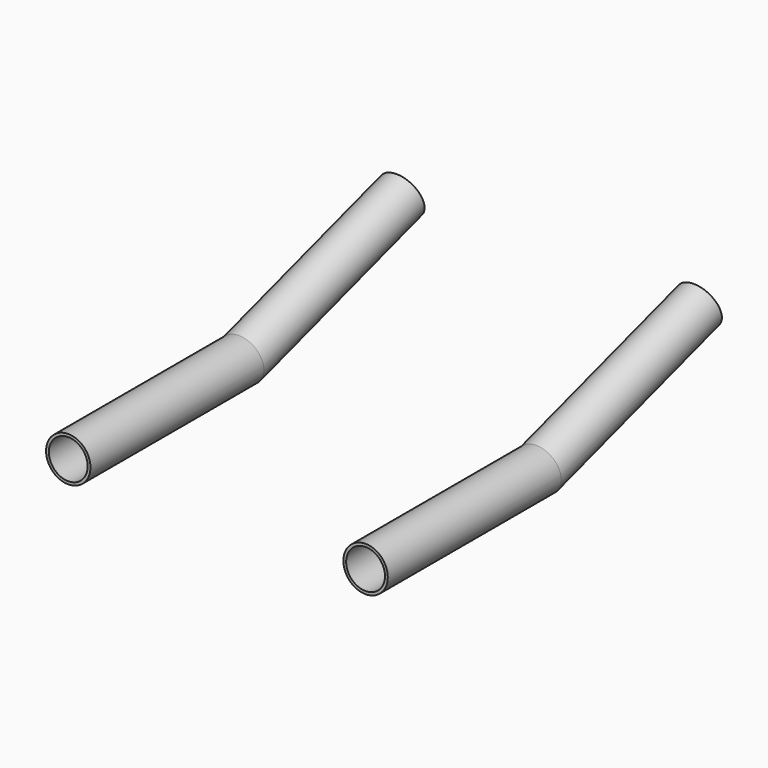
from build123d import *

# Parameters (mm, degrees)
F4_R   = 12.7
F4_R_2 = 11.1125
F6_R   = 12.7
F6_R_2 = 11.1125


with BuildPart() as f5:
    # F5: sweep along a path in F5_path
    with BuildLine(Plane(origin=(-85, 49.742757203, 0), x_dir=(0, 0, -1), z_dir=(-1, 0, 0))) as f5_path:
        Line((0, 123.8972057587), (0, 0))
        Line((0, 0), (-36.0846959405, -114.4460340898))
    # F4 (on plane+point) → F5 (sweep)
    with BuildSketch(Plane.XZ.offset(74.1544485557)):
        with Locations((-85, 0)):
            Circle(F4_R)
        with Locations((-85, 0)):
            Circle(F4_R_2, mode=Mode.SUBTRACT)
    sweep(path=f5_path.line, transition=Transition.RIGHT)


with BuildPart() as f7:
    # F7: sweep along a path in F7_path
    with BuildLine(Plane(origin=(85, 49.742757203, 0), x_dir=(0, 0, -1), z_dir=(-1, 0, 0))) as f7_path:
        Line((0, 123.8972057587), (0, 0))
        Line((0, 0), (-36.0846959405, -114.4460340898))
    # F6 (on plane+point) → F7 (sweep)
    with BuildSketch(Plane.XZ.offset(74.1544485557)):
        with Locations((85, 0)):
            Circle(F6_R)
        with Locations((85, 0)):
            Circle(F6_R_2, mode=Mode.SUBTRACT)
    sweep(path=f7_path.line, transition=Transition.RIGHT)


solid = Compound([f5.part, f7.part])
